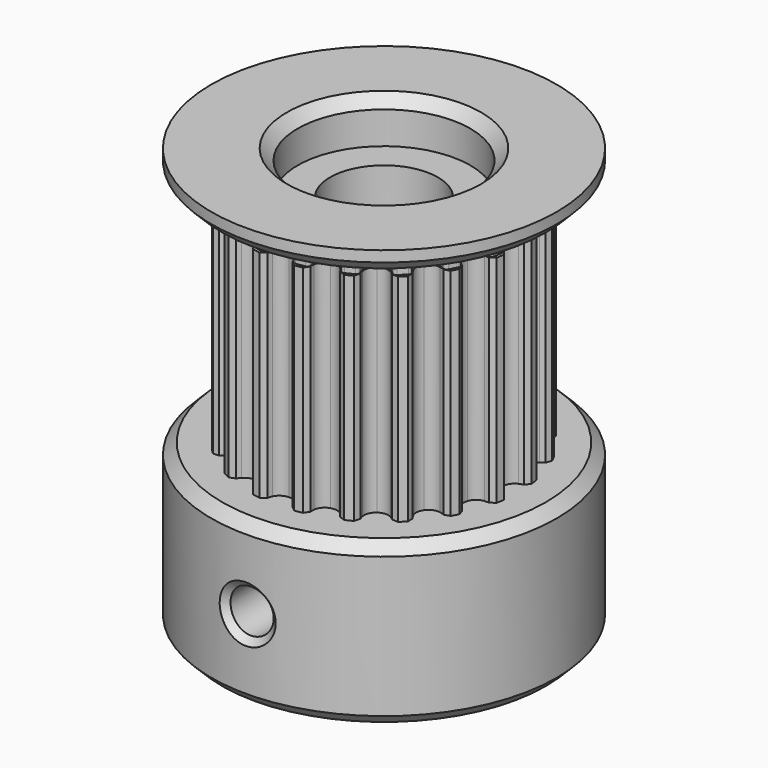
from build123d import *

# Parameters (mm, degrees)
SKETCH_R              = 6.11
PAD_DEPTH             = 11
POCKET_DEPTH          = 51.972053
POLARPATTERN_COUNT    = 20
FILLET_R              = 0.15
SKETCH002_R           = 8
PAD001_DEPTH          = 1
SKETCH003_R           = 8
PAD002_DEPTH          = 7.5
CHAMFER_SIZE          = 0.5
SKETCH004_R           = 4
POCKET001_DEPTH       = 19.501
CHAMFER001_SIZE       = 0.5
SKETCH005_R           = 1
POCKET002_DEPTH       = 67.742108
POLARPATTERN001_COUNT = 2
POLARPATTERN001_ANGLE = 90
CHAMFER002_SIZE       = 0.3
SKETCH006_R           = 6.25
PAD003_DEPTH          = 10
POCKET003_DEPTH       = 50.621192
POLARPATTERN002_COUNT = 20
CHAMFER003_SIZE       = 0.2
SKETCH008_R           = 2.5
POCKET004_DEPTH       = 10.001


with BuildPart() as body:
    # Sketch → Pad (new body)
    with BuildSketch(Plane.XY):
        Circle(SKETCH_R)
    extrude(amount=PAD_DEPTH)

    # Sketch001 (on Face3 of Pad) → Pocket (cut, through all)
    with BuildSketch(Plane.XY.offset(11)):
        with BuildLine():
            ThreePointArc((0.498876, 5.671798), (0.574391, 5.88514), (0.6, 6.11))
            Line((0.6, 6.11), (0.75, 6.11))
            Line((0.75, 6.26), (0.75, 6.11))
            Line((-0.75, 6.26), (0.75, 6.26))
            Line((-0.75, 6.11), (-0.75, 6.26))
            Line((-0.6, 6.11), (-0.75, 6.11))
            ThreePointArc((-0.6, 6.11), (-0.574391, 5.88514), (-0.498876, 5.671798))
            ThreePointArc((-0.498876, 5.671798), (0, 5.36), (0.498876, 5.671798))
        make_face()
    pocket = extrude(amount=-POCKET_DEPTH, mode=Mode.SUBTRACT)

    # PolarPattern: Pocket ×20 about axis
    polarpattern_axis = Axis((0, 0, 11), (0, 0, 1))
    for i in range(1, POLARPATTERN_COUNT):
        add(pocket.rotate(polarpattern_axis, i * 360 / POLARPATTERN_COUNT), mode=Mode.SUBTRACT)

    # Fillet
    fillet_edges = [body.edges().sort_by_distance(p)[0] for p in [
        (-4.059093, 4.566822, 5.5),
        (-4.566822, 4.059093, 5.5),
        (-3.088977, 5.271653, 5.5),
        (-2.449202, 5.597634, 5.5),
        (-1.308761, 5.968186, 5.5),
        (-0.599565, 6.080512, 5.5),
        (0.599565, 6.080512, 5.5),
        (1.308761, 5.968186, 5.5),
        (2.449202, 5.597634, 5.5),
        (3.088977, 5.271653, 5.5),
        (4.059093, 4.566822, 5.5),
        (4.566822, 4.059093, 5.5),
        (5.271653, 3.088977, 5.5),
        (5.597634, 2.449202, 5.5),
        (5.968186, 1.308761, 5.5),
        (6.080512, 0.599565, 5.5),
        (6.080512, -0.599565, 5.5),
        (5.968186, -1.308761, 5.5),
        (5.597634, -2.449202, 5.5),
        (5.271653, -3.088977, 5.5),
        (4.566822, -4.059093, 5.5),
        (4.059093, -4.566822, 5.5),
        (3.088977, -5.271653, 5.5),
        (2.449202, -5.597634, 5.5),
        (1.308761, -5.968186, 5.5),
        (0.599565, -6.080512, 5.5),
        (-0.599565, -6.080512, 5.5),
        (-1.308761, -5.968186, 5.5),
        (-2.449202, -5.597634, 5.5),
        (-3.088977, -5.271653, 5.5),
        (-4.059093, -4.566822, 5.5),
        (-4.566822, -4.059093, 5.5),
        (-5.271653, -3.088977, 5.5),
        (-5.597634, -2.449202, 5.5),
        (-5.968186, -1.308761, 5.5),
        (-6.080512, -0.599565, 5.5),
        (-6.080512, 0.599565, 5.5),
        (-5.968186, 1.308761, 5.5),
        (-5.597634, 2.449202, 5.5),
        (-5.271653, 3.088977, 5.5),
    ]]
    fillet(fillet_edges, radius=FILLET_R)

    # Sketch002 (on Face5 of Fillet) → Pad001 (join)
    with BuildSketch(Plane.XY.offset(11)):
        Circle(SKETCH002_R)
    extrude(amount=PAD001_DEPTH)

    # Sketch003 → Pad002 (join)
    with BuildSketch(Plane(origin=(0, 0, 0), x_dir=(1, 0, 0), z_dir=(0, 0, -1))):
        Circle(SKETCH003_R)
    extrude(amount=PAD002_DEPTH)

    # Chamfer
    chamfer_edges = [body.edges().sort_by_distance(p)[0] for p in [
        (-8, 0, 0),
        (-8, 0, 11),
    ]]
    chamfer(chamfer_edges, length=CHAMFER_SIZE)

    # Sketch004 (on Face125 of Chamfer) → Pocket001 (cut, through all)
    with BuildSketch(Plane(origin=(0, 0, -7.5), x_dir=(1, 0, 0), z_dir=(0, 0, -1))):
        Circle(SKETCH004_R)
    extrude(amount=-POCKET001_DEPTH, mode=Mode.SUBTRACT)

    # Chamfer001
    chamfer001_edges = [body.edges().sort_by_distance(p)[0] for p in [
        (-4, 0, -7.5),
        (-8, 0, -7.5),
        (-4, 0, 12),
    ]]
    chamfer(chamfer001_edges, length=CHAMFER001_SIZE)

    # Sketch005 → Pocket002 (cut, through all)
    with BuildSketch(Plane.YZ):
        with Locations((0, -3.75)):
            Circle(SKETCH005_R)
    pocket002 = extrude(amount=-POCKET002_DEPTH, mode=Mode.SUBTRACT)

    # PolarPattern001: Pocket002 ×2 about axis
    polarpattern001_axis = Axis((0, 0, 0), (0, 0, 1))
    for i in range(1, POLARPATTERN001_COUNT):
        add(pocket002.rotate(polarpattern001_axis, i * POLARPATTERN001_ANGLE / (POLARPATTERN001_COUNT - 1)), mode=Mode.SUBTRACT)

    # Chamfer002
    chamfer002_edges = [body.edges().sort_by_distance(p)[0] for p in [
        (-7.937254, -1, -3.75),
        (1, -7.937254, -3.75),
    ]]
    chamfer(chamfer002_edges, length=CHAMFER002_SIZE)


with BuildPart() as body001:
    # Sketch006 (on XY_Plane001 of Origin002) → Pad003 (new body)
    with BuildSketch(Plane.XY):
        Circle(SKETCH006_R)
    extrude(amount=PAD003_DEPTH)

    # Sketch007 (on Face3 of Pad003) → Pocket003 (cut, through all)
    with BuildSketch(Plane.XY.offset(10)):
        with BuildLine():
            Line((-0.75, 6.400531), (0.75, 6.400531))
            Line((0.75, 6.400531), (0.75, 6.25))
            Line((0.75, 6.25), (0.599469, 6.25))
            ThreePointArc((0.509728, 5.828101), (0.577617, 6.034154), (0.599469, 6.25))
            ThreePointArc((0, 5.5), (0.303098, 5.589116), (0.509728, 5.828101))
            ThreePointArc((-0.509728, 5.828101), (-0.303098, 5.589116), (0, 5.5))
            ThreePointArc((-0.599469, 6.25), (-0.577617, 6.034154), (-0.509728, 5.828101))
            Line((-0.75, 6.25), (-0.599469, 6.25))
            Line((-0.75, 6.400531), (-0.75, 6.25))
        make_face()
    pocket003 = extrude(amount=-POCKET003_DEPTH, mode=Mode.SUBTRACT)

    # PolarPattern002: Pocket003 ×20 about axis
    polarpattern002_axis = Axis((0, 0, 10), (0, 0, 1))
    for i in range(1, POLARPATTERN002_COUNT):
        add(pocket003.rotate(polarpattern002_axis, i * 360 / POLARPATTERN002_COUNT), mode=Mode.SUBTRACT)

    # Chamfer003
    chamfer003_edges = [body001.edges().sort_by_distance(p)[0] for p in [
        (3.171905, -5.385306, 5),
        (2.492405, -5.731528, 5),
        (4.141558, -4.680812, 5),
        (4.680812, -4.141558, 5),
        (5.385306, -3.171905, 5),
        (5.731528, -2.492405, 5),
        (6.101903, -1.352509, 5),
        (6.221203, -0.599279, 5),
        (6.221203, 0.599279, 5),
        (6.101903, 1.352509, 5),
        (5.731528, 2.492405, 5),
        (5.385306, 3.171905, 5),
        (4.680812, 4.141558, 5),
        (1.352509, -6.101903, 5),
        (0.599279, -6.221203, 5),
        (-0.599279, -6.221203, 5),
        (-1.352509, -6.101903, 5),
        (-2.492405, -5.731528, 5),
        (-3.171905, -5.385306, 5),
        (-4.141558, -4.680812, 5),
        (-4.680812, -4.141558, 5),
        (-5.385306, -3.171905, 5),
        (-5.731528, -2.492405, 5),
        (-6.101903, -1.352509, 5),
        (-6.221203, -0.599279, 5),
        (-6.221203, 0.599279, 5),
        (-6.101903, 1.352509, 5),
        (-5.731528, 2.492405, 5),
        (-5.385306, 3.171905, 5),
        (-4.680812, 4.141558, 5),
        (-4.141558, 4.680812, 5),
        (-3.171905, 5.385306, 5),
        (-2.492405, 5.731528, 5),
        (-1.352509, 6.101903, 5),
        (-0.599279, 6.221203, 5),
        (0.599279, 6.221203, 5),
        (1.352509, 6.101903, 5),
        (3.171905, 5.385306, 5),
        (2.492405, 5.731528, 5),
        (4.141558, 4.680812, 5),
    ]]
    chamfer(chamfer003_edges, length=CHAMFER003_SIZE)

    # Sketch008 (on Face122 of Chamfer003) → Pocket004 (cut, through all)
    with BuildSketch(Plane.XY.offset(10)):
        Circle(SKETCH008_R)
    extrude(amount=-POCKET004_DEPTH, mode=Mode.SUBTRACT)


solid = Compound([body.part, body001.part])
